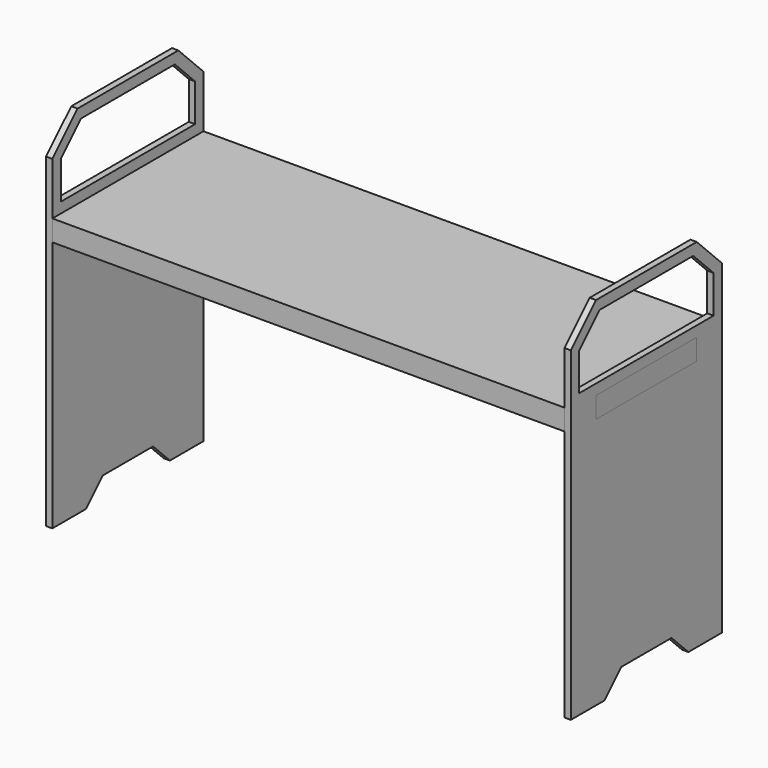
from build123d import *

# Parameters (mm, degrees)
F1_DEPTH = 10
F2_W     = 60
F2_H     = 10
F3_DEPTH = 3


with BuildPart() as f1:
    # F0 (on Top) → F1 (new body)
    with BuildSketch(Plane.XY):
        Polygon((-122, -30), (-122, -45), (122, -45), (122, -30), (125, -30), (125, 30), (122, 30), (122, 45), (-122, 45), (-122, 30), (-125, 30), (-125, -30), align=None)
    extrude(amount=F1_DEPTH)


with BuildPart() as f3:
    # F2 (on face) → F3 (new body)
    with BuildSketch(Plane(origin=(-125, 0, 0), x_dir=(0, -1, 0), z_dir=(-1, 0, 0))):
        Polygon((45, 35), (30, 50), (-30, 50), (-45, 35), (-45, -50), (-45, -120), (-25, -120), (-15, -110), (15, -110), (25, -120), (45, -120), (45, -50), align=None)
        with Locations((0, 5)):
            Rectangle(F2_W, F2_H, mode=Mode.SUBTRACT)
        Polygon((40, 15), (-40, 15), (-40, 32.928932), (-27.928932, 45), (27.928932, 45), (40, 32.928932), align=None, mode=Mode.SUBTRACT)
    extrude(amount=-F3_DEPTH)


with BuildPart() as f4_1:
    # F4: instance of F3
    add(f3.part.mirror(Plane.YZ))


solid = Compound([f1.part, f3.part, f4_1.part])
